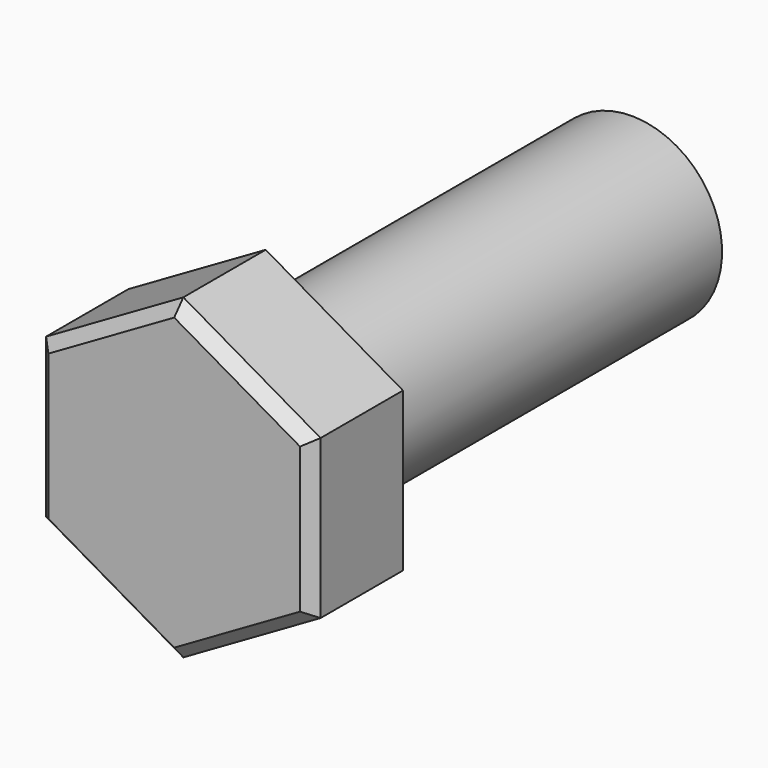
from build123d import *

# Parameters (mm, degrees)
F1_DEPTH = 10
F2_SIZE2 = 1
F2_SIZE  = 1
F3_R     = 8
F4_DEPTH = 40
F5_R     = 8
F5_R_2   = 7.9
F6_DEPTH = 38


with BuildPart() as f1:
    # F0 (on Front) → F1 (new body)
    with BuildSketch(Plane.XZ):
        Polygon((0, -13.856406), (12, -6.928203), (12, 6.928203), (0, 13.856406), (-12, 6.928203), (-12, -6.928203), align=None)
    extrude(amount=F1_DEPTH)

    # F2
    f2_edges = [f1.edges().sort_by_distance(p)[0] for p in [
        (6, -10, 10.392305),
        (-6, -10, 10.392305),
        (12, -10, 0),
        (6, -10, -10.392305),
        (-6, -10, -10.392305),
        (-12, -10, 0),
    ]]
    chamfer(f2_edges, length=F2_SIZE, length2=F2_SIZE2)

    # F3 (on face) → F4 (join)
    with BuildSketch(Plane(origin=(0, 0, 0), x_dir=(-1, 0, 0), z_dir=(0, 1, 0))):
        Circle(F3_R)
    extrude(amount=F4_DEPTH)

    # F5 (on face) → F6 (cut)
    with BuildSketch(Plane(origin=(0, 40, 0), x_dir=(-1, 0, 0), z_dir=(0, 1, 0))):
        Circle(F5_R)
        Circle(F5_R_2, mode=Mode.SUBTRACT)
    extrude(amount=-F6_DEPTH, mode=Mode.SUBTRACT)


solid = f1.part
